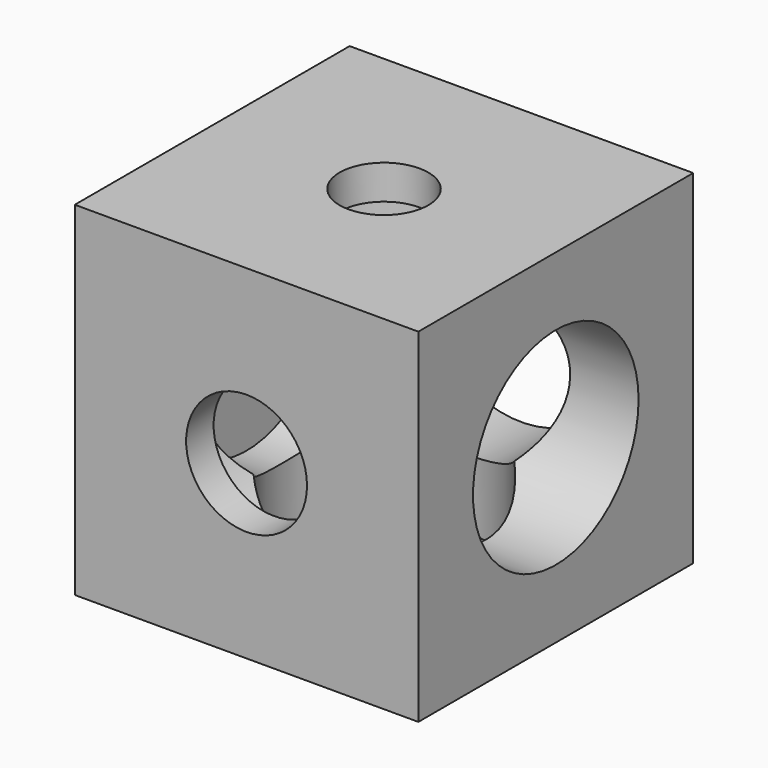
from build123d import *

# Parameters (mm, degrees)
SKETCH074_W     = 20
SKETCH074_H     = 20
PAD023_DEPTH    = 10
SKETCH075_R     = 5.966215
POCKET048_DEPTH = 18
SKETCH076_R     = 2.581292
POCKET049_DEPTH = 2
SKETCH077_R     = 6.020554
POCKET050_DEPTH = 18
SKETCH078_R     = 3.518198
POCKET051_DEPTH = 2
SKETCH079_R     = 6.023017
POCKET052_DEPTH = 18
SKETCH080_R     = 2.40921
POCKET053_DEPTH = 2


with BuildPart() as part:
    # Sketch074 → Pad023 (new body, symmetric)
    with BuildSketch(Plane(origin=(451.8, 451.8, 0), x_dir=(-1, 0, 0), z_dir=(0, 0, 1))):
        Rectangle(SKETCH074_W, SKETCH074_H)
    extrude(amount=PAD023_DEPTH, both=True)

    # Sketch075 → Pocket048 (cut)
    with BuildSketch(Plane(origin=(451.8, 451.8, -10), x_dir=(-1, 0, 0), z_dir=(0, 0, -1))):
        Circle(SKETCH075_R)
    extrude(amount=-POCKET048_DEPTH, mode=Mode.SUBTRACT)

    # Sketch076 → Pocket049 (cut)
    with BuildSketch(Plane(origin=(451.8, 451.8, 10), x_dir=(-1, 0, 0), z_dir=(0, 0, 1))):
        Circle(SKETCH076_R)
    extrude(amount=-POCKET049_DEPTH, mode=Mode.SUBTRACT)

    # Sketch077 → Pocket050 (cut)
    with BuildSketch(Plane(origin=(451.8, 461.8, 0), x_dir=(-1, 0, 0), z_dir=(0, 1, 0))):
        Circle(SKETCH077_R)
    extrude(amount=-POCKET050_DEPTH, mode=Mode.SUBTRACT)

    # Sketch078 → Pocket051 (cut)
    with BuildSketch(Plane(origin=(451.8, 441.8, 0), x_dir=(1, 0, 0), z_dir=(0, -1, 0))):
        Circle(SKETCH078_R)
    extrude(amount=-POCKET051_DEPTH, mode=Mode.SUBTRACT)

    # Sketch079 → Pocket052 (cut)
    with BuildSketch(Plane(origin=(461.8, 451.8, 0), x_dir=(0, 1, 0), z_dir=(1, 0, 0))):
        Circle(SKETCH079_R)
    extrude(amount=-POCKET052_DEPTH, mode=Mode.SUBTRACT)

    # Sketch080 → Pocket053 (cut)
    with BuildSketch(Plane(origin=(441.8, 451.8, 0), x_dir=(0, -1, 0), z_dir=(-1, 0, 0))):
        Circle(SKETCH080_R)
    extrude(amount=-POCKET053_DEPTH, mode=Mode.SUBTRACT)


solid = part.part
